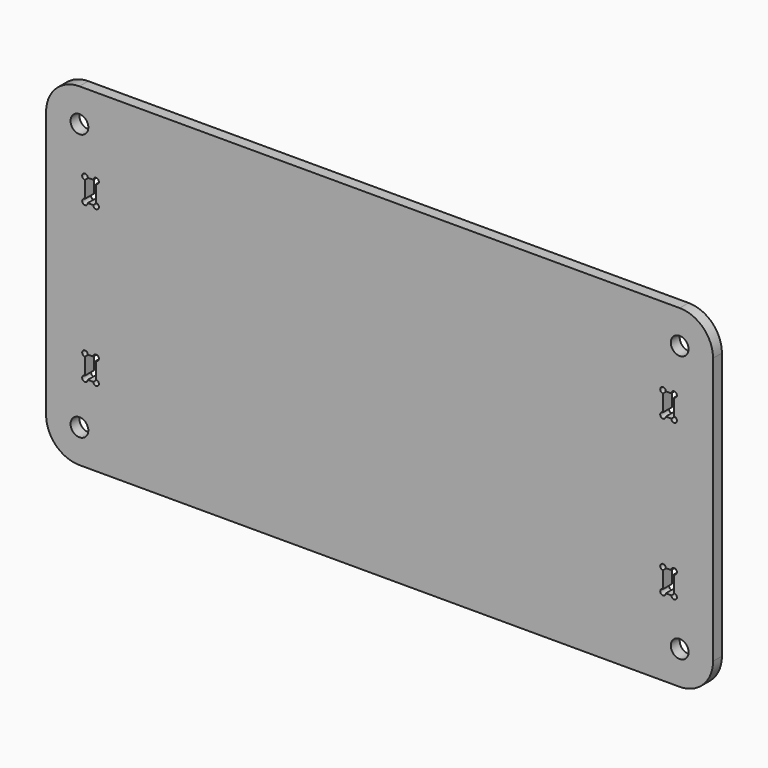
from build123d import *

# Parameters (mm, degrees)
F0_R     = 4
F1_DEPTH = 2.5


with BuildPart() as f1:
    # F0 (on Front) → F1 (new body, symmetric)
    with BuildSketch(Plane.XZ):
        with BuildLine():
            ThreePointArc((150, 60), (145.606602, 70.606602), (135, 75))
            Line((135, 75), (-135, 75))
            ThreePointArc((-135, 75), (-145.606602, 70.606602), (-150, 60))
            Line((-150, 60), (-150, -60))
            ThreePointArc((-150, -60), (-145.606602, -70.606602), (-135, -75))
            Line((-135, -75), (135, -75))
            ThreePointArc((135, -75), (145.606602, -70.606602), (150, -60))
            Line((150, -60), (150, 60))
        make_face()
        with Locations((-135, -60)):
            Circle(F0_R, mode=Mode.SUBTRACT)
        with BuildLine():
            Line((-128.75, -40), (-131.25, -40))
            ThreePointArc((-131.25, -40), (-133.383883, -40.883883), (-132.5, -38.75))
            Line((-132.5, -38.75), (-132.5, -31.25))
            ThreePointArc((-132.5, -31.25), (-133.383883, -29.116117), (-131.25, -30))
            Line((-131.25, -30), (-128.75, -30))
            ThreePointArc((-128.75, -30), (-127.5, -28.75), (-126.25, -30))
            ThreePointArc((-126.25, -30), (-126.616117, -30.883883), (-127.5, -31.25))
            Line((-127.5, -31.25), (-127.5, -38.75))
            ThreePointArc((-127.5, -38.75), (-126.616117, -39.116117), (-126.25, -40))
            ThreePointArc((-126.25, -40), (-127.5, -41.25), (-128.75, -40))
        make_face(mode=Mode.SUBTRACT)
        with Locations((135, -60)):
            Circle(F0_R, mode=Mode.SUBTRACT)
        with BuildLine():
            Line((131.25, -40), (128.75, -40))
            ThreePointArc((128.75, -40), (126.616117, -40.883883), (127.5, -38.75))
            Line((127.5, -38.75), (127.5, -31.25))
            ThreePointArc((127.5, -31.25), (126.616117, -29.116117), (128.75, -30))
            Line((128.75, -30), (131.25, -30))
            ThreePointArc((131.25, -30), (132.5, -28.75), (133.75, -30))
            ThreePointArc((133.75, -30), (133.383883, -30.883883), (132.5, -31.25))
            Line((132.5, -31.25), (132.5, -38.75))
            ThreePointArc((132.5, -38.75), (133.383883, -39.116117), (133.75, -40))
            ThreePointArc((133.75, -40), (132.5, -41.25), (131.25, -40))
        make_face(mode=Mode.SUBTRACT)
        with BuildLine():
            Line((-128.75, 30), (-131.25, 30))
            ThreePointArc((-131.25, 30), (-133.383883, 29.116117), (-132.5, 31.25))
            Line((-132.5, 31.25), (-132.5, 38.75))
            ThreePointArc((-132.5, 38.75), (-133.383883, 40.883883), (-131.25, 40))
            Line((-131.25, 40), (-128.75, 40))
            ThreePointArc((-128.75, 40), (-127.5, 41.25), (-126.25, 40))
            ThreePointArc((-126.25, 40), (-126.616117, 39.116117), (-127.5, 38.75))
            Line((-127.5, 38.75), (-127.5, 31.25))
            ThreePointArc((-127.5, 31.25), (-126.616117, 30.883883), (-126.25, 30))
            ThreePointArc((-126.25, 30), (-127.5, 28.75), (-128.75, 30))
        make_face(mode=Mode.SUBTRACT)
        with Locations((-135, 60)):
            Circle(F0_R, mode=Mode.SUBTRACT)
        with BuildLine():
            ThreePointArc((128.75, 30), (126.616117, 29.116117), (127.5, 31.25))
            Line((127.5, 31.25), (127.5, 38.75))
            ThreePointArc((127.5, 38.75), (126.616117, 40.883883), (128.75, 40))
            Line((128.75, 40), (131.25, 40))
            ThreePointArc((131.25, 40), (132.5, 41.25), (133.75, 40))
            ThreePointArc((133.75, 40), (133.383883, 39.116117), (132.5, 38.75))
            Line((132.5, 38.75), (132.5, 31.25))
            ThreePointArc((132.5, 31.25), (133.383883, 30.883883), (133.75, 30))
            ThreePointArc((133.75, 30), (132.5, 28.75), (131.25, 30))
            Line((131.25, 30), (128.75, 30))
        make_face(mode=Mode.SUBTRACT)
        with Locations((135, 60)):
            Circle(F0_R, mode=Mode.SUBTRACT)
    extrude(amount=F1_DEPTH, both=True)


solid = f1.part
